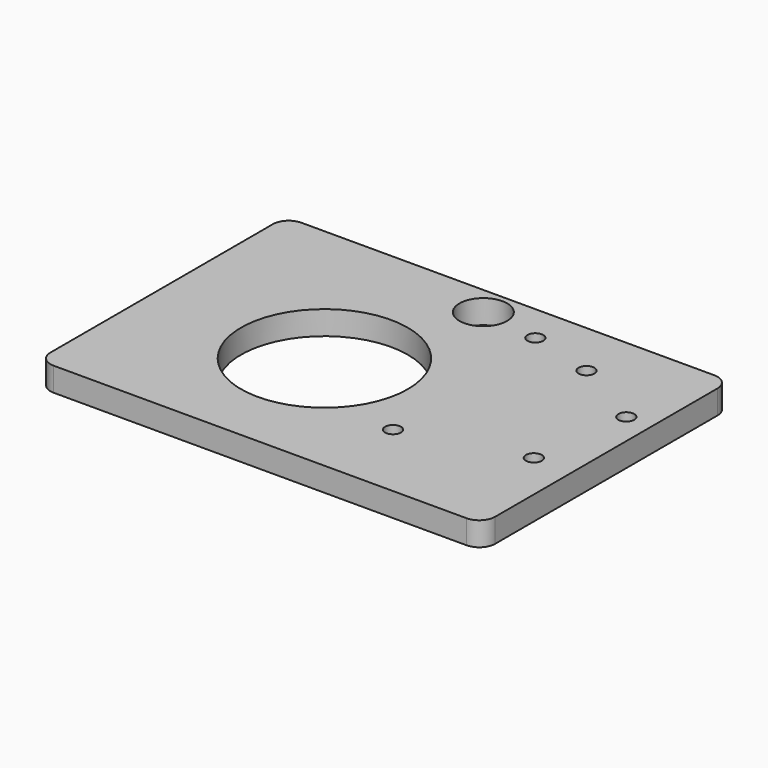
from build123d import *

# Parameters (mm, degrees)
F0_W     = 56
F0_H     = 39
F0_R     = 10.5
F1_DEPTH = 3
F2_R     = 2
F3_R     = 1
F3_R_2   = 3
F4_DEPTH = 3


with BuildPart() as f1:
    # F0 (on Top) → F1 (new body)
    with BuildSketch(Plane.XY):
        with Locations((6.180598, 1.654658)):
            Rectangle(F0_W, F0_H)
        Circle(F0_R, mode=Mode.SUBTRACT)
    extrude(amount=F1_DEPTH)

    # F2
    f2_edges = [f1.edges().sort_by_distance(p)[0] for p in [
        (-21.819402, -17.845342, 1.5),
        (34.180598, -17.845342, 1.5),
        (34.180598, 21.154658, 1.5),
        (-21.819402, 21.154658, 1.5),
    ]]
    fillet(f2_edges, radius=F2_R)

    # F3 (on face) → F4 (cut, through all)
    with BuildSketch(Plane.XY.offset(3)):
        with Locations((29.314389, -3.673016)):
            Circle(F3_R)
        with Locations((14.742243, -7.630614)):
            Circle(F3_R)
        with Locations((30.968287, 8.817965)):
            Circle(F3_R)
        with Locations((21.755693, 14.060876)):
            Circle(F3_R)
        with Locations((13.471731, 16.370847)):
            Circle(F3_R)
        with Locations((6.050627, 17.455842)):
            Circle(F3_R_2)
    extrude(amount=-F4_DEPTH, mode=Mode.SUBTRACT)


solid = f1.part
